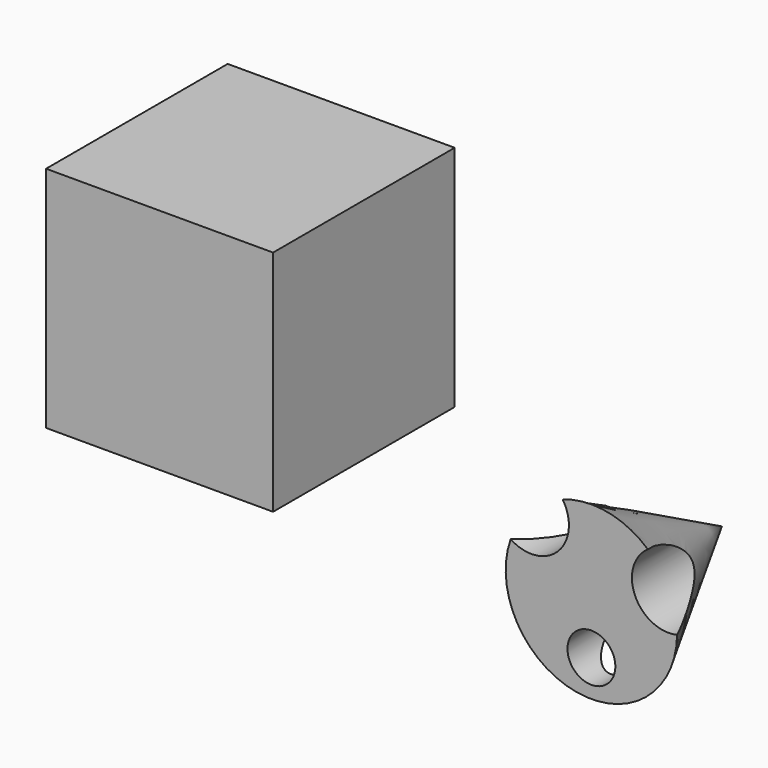
from build123d import *

# Parameters (mm, degrees)
F0_W     = 31.580493
F0_H     = 31.580493
F1_DEPTH = 31.75
F5_R     = 5.211632
F5_R_2   = 5.091019
F5_R_3   = 3.33095
F6_DEPTH = 81.709609


with BuildPart() as f1:
    # F0 (on Top) → F1 (new body)
    with BuildSketch(Plane.XY):
        with Locations((-56.010683, 40.518362)):
            Rectangle(F0_W, F0_H)
    extrude(amount=F1_DEPTH)


with BuildPart() as f3:
    # F2 (on Top) → F3 (revolve)
    with BuildSketch(Plane.XY):
        Polygon((11.924568, 29.811418), (0, 52.506562), (0, 29.811418), align=None)
    revolve(axis=Axis((0, 41.15899, 0), (0, -1, 0)))

    # F5 (on offset) → F6 (cut, through all)
    with BuildSketch(Plane.XZ.offset(25.4)):
        with Locations((-8.342019, 8.342016)):
            Circle(F5_R)
        with Locations((10.725448, 4.766865)):
            Circle(F5_R_2)
        with Locations((0, -6.852373)):
            Circle(F5_R_3)
    extrude(amount=-F6_DEPTH, mode=Mode.SUBTRACT)


solid = Compound([f1.part, f3.part])
